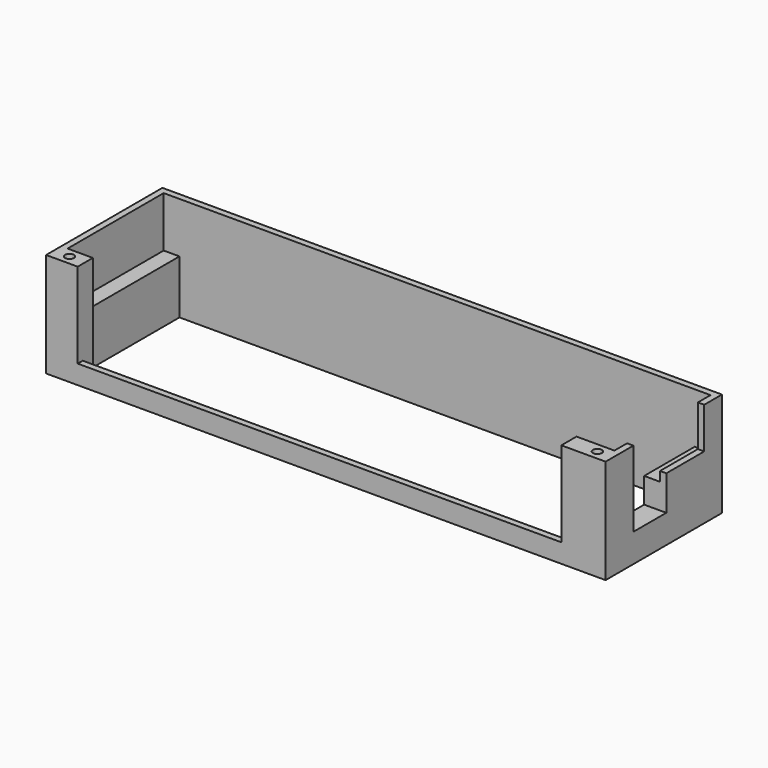
from build123d import *

# Parameters (mm, degrees)
F0_W      = 177
F0_H      = 46
F0_W_2    = 173
F0_H_2    = 38
F1_DEPTH  = 33
F2_W      = 153
F2_H      = 27
F3_DEPTH  = 6
F4_W      = 5
F4_H      = 38
F5_DEPTH  = 17
F6_W      = 13
F6_H      = 11
F7_DEPTH  = 25
F9_R      = 1.4
F10_DEPTH = 5
F11_W     = 153
F11_H     = 4
F12_DEPTH = 6


with BuildPart() as f1:
    # F0 (on Top) → F1 (new body)
    with BuildSketch(Plane.XY):
        Rectangle(F0_W, F0_H)
        with Locations((0, 2)):
            Rectangle(F0_W_2, F0_H_2, mode=Mode.SUBTRACT)
    extrude(amount=F1_DEPTH)

    # F2 (on face) → F3 (cut)
    with BuildSketch(Plane.XZ.offset(23)):
        with Locations((-2, 19.5)):
            Rectangle(F2_W, F2_H)
    extrude(amount=-F3_DEPTH, mode=Mode.SUBTRACT)

    # F4 (on Top) → F5 (join)
    with BuildSketch(Plane.XY):
        with Locations((-84, 2)):
            Rectangle(F4_W, F4_H)
        with Locations((84, 2)):
            Rectangle(F4_W, F4_H)
    extrude(amount=F5_DEPTH)

    # F6 (on face) → F7 (cut)
    with BuildSketch(Plane.YZ.offset(88.5)):
        Polygon((16, 33), (-12, 33), (-12, 20), (1, 20), (16, 20), align=None)
        with Locations((-5.5, 14.5)):
            Rectangle(F6_W, F6_H)
    extrude(amount=-F7_DEPTH, mode=Mode.SUBTRACT)

    # F9 (on offset) → F10 (cut)
    with BuildSketch(Plane.XY.offset(33)):
        with Locations((-83.5, -20)):
            Circle(F9_R)
        with Locations((83.5, -20)):
            Circle(F9_R)
    extrude(amount=-F10_DEPTH, mode=Mode.SUBTRACT)

    # F11 (on face) → F12 (cut)
    with BuildSketch(Plane.XY.offset(6)):
        with Locations((-2, -19)):
            Rectangle(F11_W, F11_H)
    extrude(amount=-F12_DEPTH, mode=Mode.SUBTRACT)


solid = f1.part
